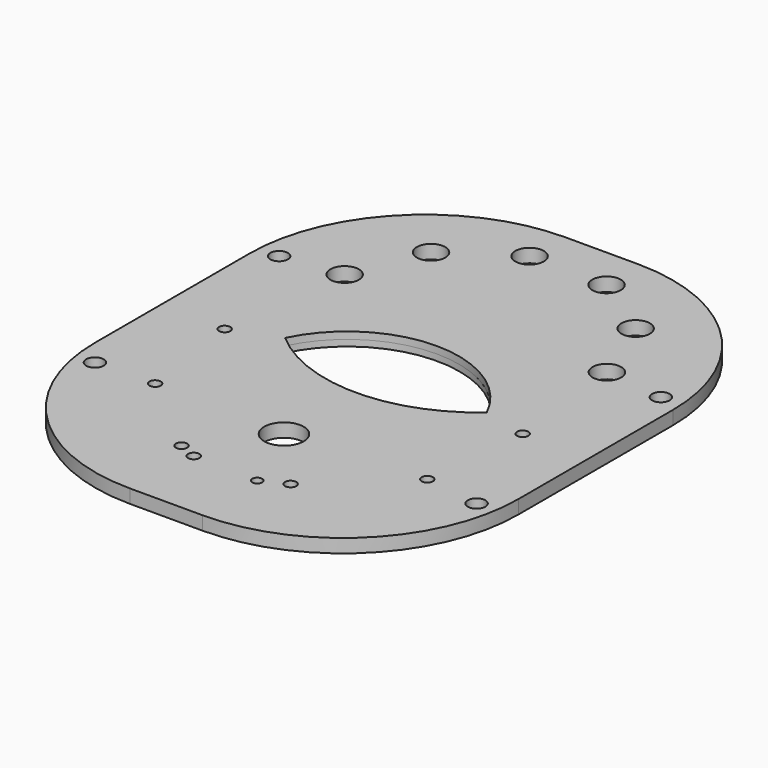
from build123d import *

# Parameters (mm, degrees)
CYLINDER170_R         = 6.5
CYLINDER170_DEPTH     = 10
ARRAY001_COUNT        = 6
ARRAY001_ANGLE        = 170
CYLINDER012_R         = 2.579687
CYLINDER012_DEPTH     = 19.5
ARRAY_COUNT           = 6
ARRAY_ANGLE           = 208
ARRAY_PLACEMENT_ANGLE = 109
CYLINDER052_R         = 47.75
CYLINDER052_DEPTH     = 3
CYLINDER051_R         = 51.25
CYLINDER051_DEPTH     = 3
CYLINDER164_R         = 2.28
CYLINDER164_DEPTH     = 29
CYLINDER163_R         = 2.58
CYLINDER163_DEPTH     = 29
CYLINDER159_R         = 9
CYLINDER159_DEPTH     = 21
CYLINDER165_R         = 4
CYLINDER165_DEPTH     = 10
CYLINDER166_R         = 4
CYLINDER166_DEPTH     = 10
CYLINDER167_R         = 4
CYLINDER167_DEPTH     = 10
CYLINDER168_R         = 4
CYLINDER168_DEPTH     = 10
CYLINDER005_R         = 51
CYLINDER005_DEPTH     = 20
CYLINDER004_R         = 70.0875
CYLINDER004_DEPTH     = 20
BOX_W                 = 193
BOX_H                 = 248
BOX_DEPTH             = 6.2
FILLET_R              = 80


with BuildPart() as array001:
    # Cylinder170 → Cylinder170 (new body)
    with BuildSketch(Plane(origin=(60, 181, 0), x_dir=(1, 0, 0), z_dir=(0, 0, 1))):
        Circle(CYLINDER170_R)
    extrude(amount=CYLINDER170_DEPTH)

    # Array001: Array001 ×6 about axis
    array001_axis = Axis((0, 176, 0), (0, 0, 1))


with BuildPart() as array001_1:
    add(array001.part)
    for i in range(1, ARRAY001_COUNT):
        add(array001.part.rotate(array001_axis, i * ARRAY001_ANGLE / (ARRAY001_COUNT - 1)))


with BuildPart() as array001_2:
    # Array001 placement: moved
    add(array001_1.part.moved(Location((0, -5, 0))))


with BuildPart() as obj1:
    # Cylinder012 → Cylinder012 (new body)
    with BuildSketch(Plane(origin=(36.025, 58.5, -4), x_dir=(1, 0, 0), z_dir=(0, 0, 1))):
        Circle(CYLINDER012_R)
    extrude(amount=CYLINDER012_DEPTH)

    # Array: obj1 ×6 about axis
    array_axis = Axis((0, 0, 0), (0, 0, 1))


with BuildPart() as obj1_1:
    add(obj1.part)
    for i in range(1, ARRAY_COUNT):
        add(obj1.part.rotate(array_axis, i * ARRAY_ANGLE / (ARRAY_COUNT - 1)))


with BuildPart() as obj1_2:
    # Array placement: moved
    add(obj1_1.part.moved(Location((0, 102, 0))).rotate(Axis((0, 102, 0), (0, 0, 1)), ARRAY_PLACEMENT_ANGLE))


with BuildPart() as flange002:
    # Cylinder052 → Cylinder052 (new body)
    with BuildSketch(Plane(origin=(0, 68, 0), x_dir=(1, 0, 0), z_dir=(0, 0, 1))):
        Circle(CYLINDER052_R)
    extrude(amount=CYLINDER052_DEPTH)


with BuildPart() as centeringringgroove:
    # Cylinder051 → Cylinder051 (new body)
    with BuildSketch(Plane(origin=(0, 68, 0), x_dir=(1, 0, 0), z_dir=(0, 0, 1))):
        Circle(CYLINDER051_R)
    extrude(amount=CYLINDER051_DEPTH)

    # Cut001: cut Flange002
    add(flange002.part, mode=Mode.SUBTRACT)


with BuildPart() as centeringringgroove_1:
    # Cut001 placement: moved
    add(centeringringgroove.part.moved(Location((0, 35, 0))))


with BuildPart() as cylinder016:
    # Cylinder164 → Cylinder164 (new body)
    with BuildSketch(Plane(origin=(15, 33, -9), x_dir=(1, 0, 0), z_dir=(0, 0, 1))):
        Circle(CYLINDER164_R)
    extrude(amount=CYLINDER164_DEPTH)


with BuildPart() as cylinder015:
    # Cylinder163 → Cylinder163 (new body)
    with BuildSketch(Plane(origin=(-14.5, 33.7, -7), x_dir=(1, 0, 0), z_dir=(0, 0, 1))):
        Circle(CYLINDER163_R)
    extrude(amount=CYLINDER163_DEPTH)


with BuildPart() as cylinder011:
    # Cylinder159 → Cylinder159 (new body)
    with BuildSketch(Plane(origin=(0, 67, -4), x_dir=(1, 0, 0), z_dir=(0, 0, 1))):
        Circle(CYLINDER159_R)
    extrude(amount=CYLINDER159_DEPTH)


with BuildPart() as cylinder017:
    # Cylinder165 → Cylinder165 (new body)
    with BuildSketch(Plane(origin=(-87, 173, 0), x_dir=(1, 0, 0), z_dir=(0, 0, 1))):
        Circle(CYLINDER165_R)
    extrude(amount=CYLINDER165_DEPTH)


with BuildPart() as cylinder018:
    # Cylinder166 → Cylinder166 (new body)
    with BuildSketch(Plane(origin=(87, 68, 0), x_dir=(1, 0, 0), z_dir=(0, 0, 1))):
        Circle(CYLINDER166_R)
    extrude(amount=CYLINDER166_DEPTH)


with BuildPart() as cylinder019:
    # Cylinder167 → Cylinder167 (new body)
    with BuildSketch(Plane(origin=(-87, 68, 0), x_dir=(1, 0, 0), z_dir=(0, 0, 1))):
        Circle(CYLINDER167_R)
    extrude(amount=CYLINDER167_DEPTH)


with BuildPart() as cylinder020:
    # Cylinder168 → Cylinder168 (new body)
    with BuildSketch(Plane(origin=(87, 173, 0), x_dir=(1, 0, 0), z_dir=(0, 0, 1))):
        Circle(CYLINDER168_R)
    extrude(amount=CYLINDER168_DEPTH)


with BuildPart() as cylinder005:
    # Cylinder005 → Cylinder005 (new body)
    with BuildSketch(Plane(origin=(0, 74, 0), x_dir=(1, 0, 0), z_dir=(0, 0, 1))):
        Circle(CYLINDER005_R)
    extrude(amount=CYLINDER005_DEPTH)


with BuildPart() as fusion001:
    # Cylinder004 → Cylinder004 (new body)
    with BuildSketch(Plane(origin=(0, 149, 0), x_dir=(1, 0, 0), z_dir=(0, 0, 1))):
        Circle(CYLINDER004_R)
    extrude(amount=CYLINDER004_DEPTH)

    # Common: intersect Cylinder005
    add(cylinder005.part, mode=Mode.INTERSECT)


with BuildPart() as fusion001_1:
    # Common placement: moved
    add(fusion001.part.moved(Location((0, 29, 0))))

    # Fusion: union obj1, CenteringRingGroove, Cylinder016, Cylinder015, Cylinder011, Cylinder017, Cylinder018, Cylinder019, Cylinder020
    add(obj1_2.part)
    add(centeringringgroove_1.part)
    add(cylinder016.part)
    add(cylinder015.part)
    add(cylinder011.part)
    add(cylinder017.part)
    add(cylinder018.part)
    add(cylinder019.part)
    add(cylinder020.part)

    # Fusion001: union Array001
    add(array001_2.part)


with BuildPart() as cut021:
    # Box → Box (new body)
    with BuildSketch(Plane(origin=(-96.5, 0, 0), x_dir=(1, 0, 0), z_dir=(0, 0, 1))):
        with Locations((96.5, 124)):
            Rectangle(BOX_W, BOX_H)
    extrude(amount=BOX_DEPTH)

    # Fillet
    fillet_edges = [cut021.edges().sort_by_distance(p)[0] for p in [
        (-96.5, 0, 3.1),
        (-96.5, 248, 3.1),
        (96.5, 0, 3.1),
        (96.5, 248, 3.1),
    ]]
    fillet(fillet_edges, radius=FILLET_R)

    # Cut021: cut Fusion001
    add(fusion001_1.part, mode=Mode.SUBTRACT)


solid = cut021.part
